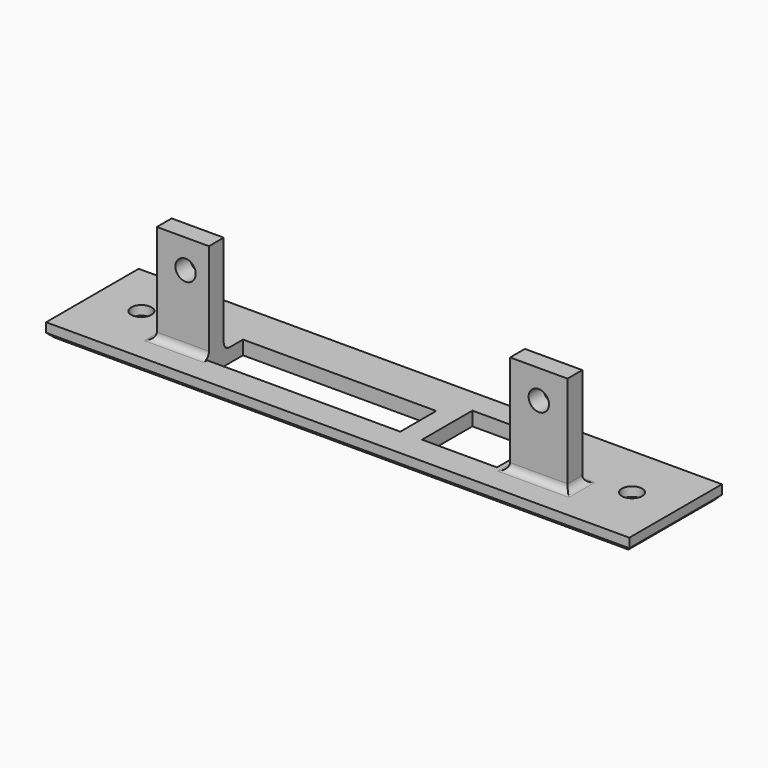
from build123d import *

# Parameters (mm, degrees)
SKETCH_W        = 126
SKETCH_H        = 25
SKETCH_R        = 2.2
PAD_DEPTH       = 3
SKETCH001_W     = 12.4
SKETCH001_H     = 4
PAD001_DEPTH    = 21.497
SKETCH002_R     = 2.2
POCKET_DEPTH    = 4
CHAMFER_SIZE    = 1
FILLET_R        = 1.5
SKETCH003_W     = 41.75
SKETCH003_H     = 9.7
SKETCH003_W_2   = 16.2
SKETCH003_H_2   = 13.6
POCKET001_DEPTH = 24.498
SKETCH004_W     = 2.651
SKETCH004_H     = 0.381966
POCKET002_DEPTH = 15.808


with BuildPart() as part:
    # Sketch → Pad (new body)
    with BuildSketch(Plane.XY):
        Rectangle(SKETCH_W, SKETCH_H)
        with Locations((-53, 0.726)):
            Circle(SKETCH_R, mode=Mode.SUBTRACT)
        with Locations((53, 0.726)):
            Circle(SKETCH_R, mode=Mode.SUBTRACT)
    extrude(amount=PAD_DEPTH)

    # Sketch001 → Pad001 (new body)
    with BuildSketch(Plane.XY.offset(3)):
        with Locations((-38.154, -3.892)):
            Rectangle(SKETCH001_W, SKETCH001_H)
        with Locations((38.154, -3.892)):
            Rectangle(SKETCH001_W, SKETCH001_H)
    extrude(amount=PAD001_DEPTH)

    # Sketch002 → Pocket (cut)
    with BuildSketch(Plane.XZ.offset(5.892)):
        with Locations((-38.154, 18.297)):
            Circle(SKETCH002_R)
    pocket = extrude(amount=-POCKET_DEPTH, mode=Mode.SUBTRACT)

    # Mirrored: Pocket across Sketch002 V_Axis
    add(pocket.mirror(Plane(origin=(0, -5.892, 0), x_dir=(0, -1, 0), z_dir=(1, 0, 0))), mode=Mode.SUBTRACT)

    # Chamfer
    chamfer_edges = [part.edges().sort_by_distance(p)[0] for p in [
        (0, 12.5, 0),
        (63, 0, 0),
        (0, -12.5, 0),
        (-63, 0, 0),
        (50.8, 0.726, 0),
        (-55.2, 0.726, 0),
    ]]
    chamfer(chamfer_edges, length=CHAMFER_SIZE)

    # Fillet
    fillet_edges = [part.edges().sort_by_distance(p)[0] for p in [
        (38.154, -5.892, 3),
        (31.954, -3.892, 3),
        (38.154, -1.892, 3),
        (44.354, -3.892, 3),
        (-38.154, -5.892, 3),
        (-31.954, -3.892, 3),
        (-38.154, -1.892, 3),
        (-44.354, -3.892, 3),
    ]]
    fillet(fillet_edges, radius=FILLET_R)

    # Sketch003 → Pocket001 (cut, through all)
    with BuildSketch(Plane(origin=(0, 0, 0), x_dir=(1, 0, 0), z_dir=(0, 0, -1))):
        with Locations((-12.23, 1.542)):
            Rectangle(SKETCH003_W, SKETCH003_H)
        with Locations((21.425, -0.408)):
            Rectangle(SKETCH003_W_2, SKETCH003_H_2)
    extrude(amount=-POCKET001_DEPTH, mode=Mode.SUBTRACT)

    # Sketch004 → Pocket002 (cut)
    with BuildSketch(Plane.XZ.offset(12.5)):
        with Locations((-31.7795, 3.190983)):
            Rectangle(SKETCH004_W, SKETCH004_H)
    extrude(amount=-POCKET002_DEPTH, mode=Mode.SUBTRACT)


solid = part.part
